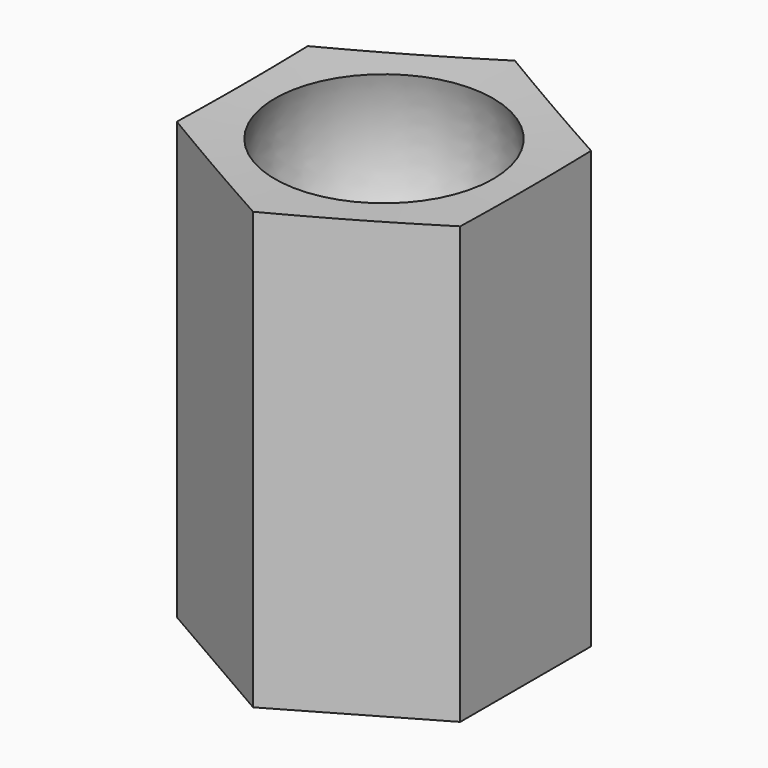
from build123d import *

# Parameters (mm, degrees)
F3_DEPTH = 206.616135


with BuildPart() as f1:
    # F0 (on Front) → F1 (revolve)
    with BuildSketch(Plane.XZ):
        with BuildLine():
            ThreePointArc((16.980399, 84.057986), (46.830312, 47.269247), (50, 0))
            Line((50, 0), (75, 0))
            Line((75, 0), (75, 200))
            Line((75, 200), (50.020899, 198.977988))
            ThreePointArc((50.020899, 198.977988), (48.457809, 149.011176), (16.980399, 110.174363))
            Line((16.980399, 110.174363), (16.980399, 84.057986))
        make_face()
    revolve(axis=Axis((0, 0, 42.679031), (0, 0, 1)))

    # F2 (on Top) → F3 (intersect)
    with BuildSketch(Plane.XY):
        Polygon((-64.951905, 37.5), (-64.951905, -37.5), (0, -75), (64.951905, -37.5), (64.951905, 37.5), (0, 75), align=None)
    extrude(amount=F3_DEPTH, mode=Mode.INTERSECT)


solid = f1.part
